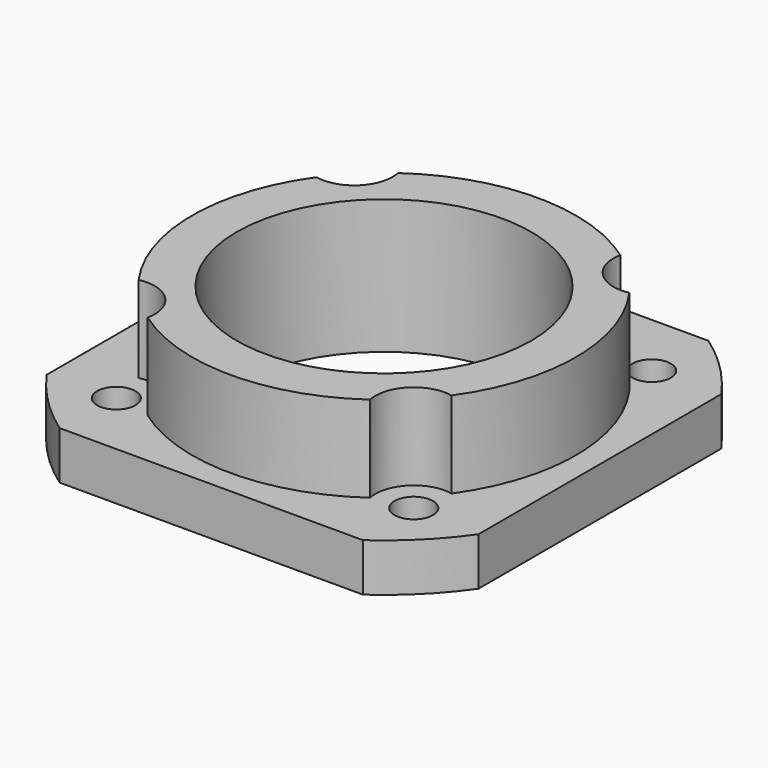
from build123d import *

# Parameters (mm, degrees)
F0_W      = 45
F0_H      = 45
F1_DEPTH  = 5
F2_R      = 20
F3_DEPTH  = 9
F4_R      = 2
F5_DEPTH  = 25
F6_R      = 4
F7_DEPTH  = 25
F8_R      = 15.35
F9_DEPTH  = 25
F10_R     = 45.141628
F10_R_2   = 27.5
F11_DEPTH = 25


with BuildPart() as f1:
    # F0 (on Top) → F1 (new body)
    with BuildSketch(Plane.XY):
        Rectangle(F0_W, F0_H)
    extrude(amount=F1_DEPTH)

    # F2 (on face) → F3 (join)
    with BuildSketch(Plane.XY.offset(5)):
        Circle(F2_R)
    extrude(amount=F3_DEPTH)

    # F4 (on face) → F5 (cut)
    with BuildSketch(Plane(origin=(0, 0, 0), x_dir=(1, 0, 0), z_dir=(0, 0, -1))):
        with Locations((-15.5, 15.5)):
            Circle(F4_R)
        with Locations((-15.5, -15.5)):
            Circle(F4_R)
        with Locations((15.5, 15.5)):
            Circle(F4_R)
        with Locations((15.5, -15.5)):
            Circle(F4_R)
    extrude(amount=-F5_DEPTH, mode=Mode.SUBTRACT)

    # F6 (on face) → F7 (cut)
    with BuildSketch(Plane.XY.offset(5)):
        with Locations((15.5, -15.5)):
            Circle(F6_R)
        with Locations((-15.5, -15.5)):
            Circle(F6_R)
        with Locations((15.5, 15.5)):
            Circle(F6_R)
        with Locations((-15.5, 15.5)):
            Circle(F6_R)
    extrude(amount=F7_DEPTH, mode=Mode.SUBTRACT)

    # F8 (on face) → F9 (cut)
    with BuildSketch(Plane.XY.offset(14)):
        Circle(F8_R)
    extrude(amount=-F9_DEPTH, mode=Mode.SUBTRACT)

    # F10 (on face) → F11 (cut)
    with BuildSketch(Plane(origin=(0, 0, 0), x_dir=(1, 0, 0), z_dir=(0, 0, -1))):
        Circle(F10_R)
        Circle(F10_R_2, mode=Mode.SUBTRACT)
    extrude(amount=-F11_DEPTH, mode=Mode.SUBTRACT)


solid = f1.part
